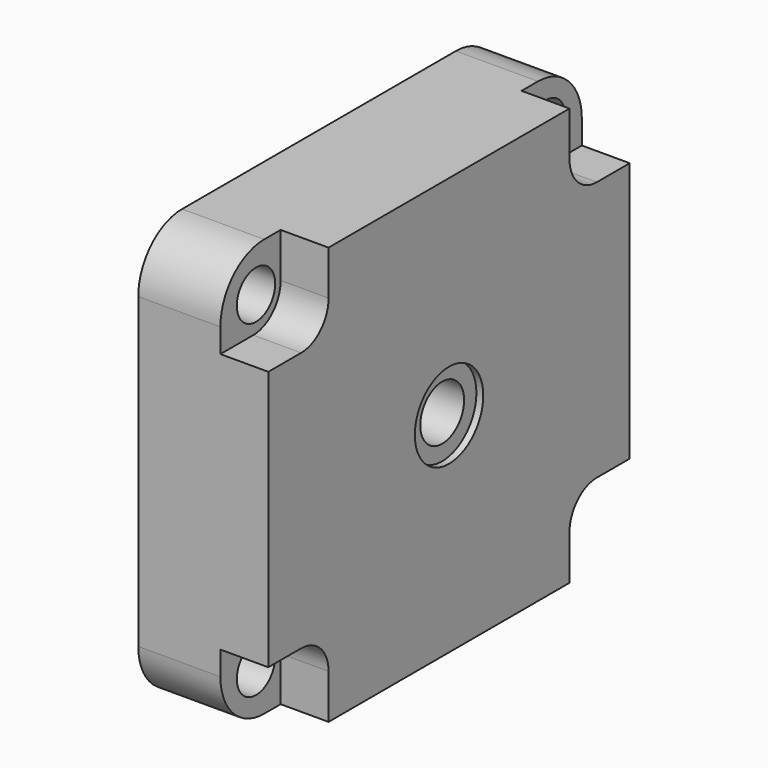
from build123d import *

# Parameters (mm, degrees)
F0_W      = 660
F0_H      = 610
F1_DEPTH  = 120
F2_R      = 80
F4_DEPTH  = 70
F6_DEPTH  = 70
F7_DEPTH  = 70
F8_R      = 62.5
F9_DEPTH  = 10
F10_R     = 40
F11_DEPTH = 180.001
F12_R     = 35
F13_DEPTH = 190.001


with BuildPart() as f1:
    # F0 (on Right) → F1 (new body)
    with BuildSketch(Plane.YZ):
        Rectangle(F0_W, F0_H)
    extrude(amount=F1_DEPTH)

    # F2
    f2_edges = [f1.edges().sort_by_distance(p)[0] for p in [
        (60, 330, 305),
        (60, -330, 305),
        (60, 330, -305),
        (60, -330, -305),
    ]]
    fillet(f2_edges, radius=F2_R)

    # F3 (on face) → F4 (join)
    with BuildSketch(Plane.YZ.offset(120)):
        with BuildLine():
            ThreePointArc((250, 305), (306.5685424949, 281.5685424949), (330, 225))
            Line((330, 225), (330, 305))
            Line((330, 305), (250, 305))
        make_face()
        with BuildLine():
            Line((-330, 305), (-330, 225))
            ThreePointArc((-330, 225), (-306.5685424949, 281.5685424949), (-250, 305))
            Line((-250, 305), (-330, 305))
        make_face()
        with BuildLine():
            Line((-250, -305), (250, -305))
            ThreePointArc((250, -305), (306.5685424949, -281.5685424949), (330, -225))
            Line((330, -225), (330, 225))
            ThreePointArc((330, 225), (306.5685424949, 281.5685424949), (250, 305))
            Line((250, 305), (-250, 305))
            ThreePointArc((-250, 305), (-306.5685424949, 281.5685424949), (-330, 225))
            Line((-330, 225), (-330, -225))
            ThreePointArc((-330, -225), (-306.5685424949, -281.5685424949), (-250, -305))
        make_face()
        with BuildLine():
            Line((250, -305), (330, -305))
            Line((330, -305), (330, -225))
            ThreePointArc((330, -225), (306.5685424949, -281.5685424949), (250, -305))
        make_face()
        with BuildLine():
            Line((-330, -305), (-250, -305))
            ThreePointArc((-250, -305), (-306.5685424949, -281.5685424949), (-330, -225))
            Line((-330, -225), (-330, -305))
        make_face()
    extrude(amount=F4_DEPTH)

    # F5 (on face) → F6 (cut)
    with BuildSketch(Plane.YZ.offset(190)):
        with BuildLine():
            ThreePointArc((-270, 190), (-234.6446609407, 204.6446609407), (-220, 240))
            Line((-220, 240), (-220, 305))
            Line((-220, 305), (-330, 305))
            Line((-330, 305), (-330, 190))
            Line((-330, 190), (-270, 190))
        make_face()
    extrude(amount=-F6_DEPTH, mode=Mode.SUBTRACT)

    # F5 (on face) → F7 (cut)
    with BuildSketch(Plane.YZ.offset(190)):
        with BuildLine():
            Line((330, 305), (220, 305))
            Line((220, 305), (220, 240))
            ThreePointArc((220, 240), (234.6446609407, 204.6446609407), (270, 190))
            Line((270, 190), (330, 190))
            Line((330, 190), (330, 305))
        make_face()
        with BuildLine():
            Line((220, -240), (220, -305))
            Line((220, -305), (330, -305))
            Line((330, -305), (330, -190))
            Line((330, -190), (270, -190))
            ThreePointArc((270, -190), (234.6446609407, -204.6446609407), (220, -240))
        make_face()
        with BuildLine():
            Line((-270, -190), (-330, -190))
            Line((-330, -190), (-330, -305))
            Line((-330, -305), (-220, -305))
            Line((-220, -305), (-220, -240))
            ThreePointArc((-220, -240), (-234.6446609407, -204.6446609407), (-270, -190))
        make_face()
    extrude(amount=-F7_DEPTH, mode=Mode.SUBTRACT)

    # F8 (on face) → F9 (cut)
    with BuildSketch(Plane.YZ.offset(190)):
        Circle(F8_R)
    extrude(amount=-F9_DEPTH, mode=Mode.SUBTRACT)

    # F10 (on face) → F11 (cut, through all)
    with BuildSketch(Plane.YZ.offset(180)):
        Circle(F10_R)
    extrude(amount=-F11_DEPTH, mode=Mode.SUBTRACT)

    # F12 (on face) → F13 (cut, through all)
    with BuildSketch(Plane(origin=(0, 0, 0), x_dir=(0, -1, 0), z_dir=(-1, 0, 0))):
        with Locations((-265, 240)):
            Circle(F12_R)
        with Locations((265, 240)):
            Circle(F12_R)
        with Locations((265, -240)):
            Circle(F12_R)
        with Locations((-265, -240)):
            Circle(F12_R)
    extrude(amount=-F13_DEPTH, mode=Mode.SUBTRACT)


solid = f1.part
